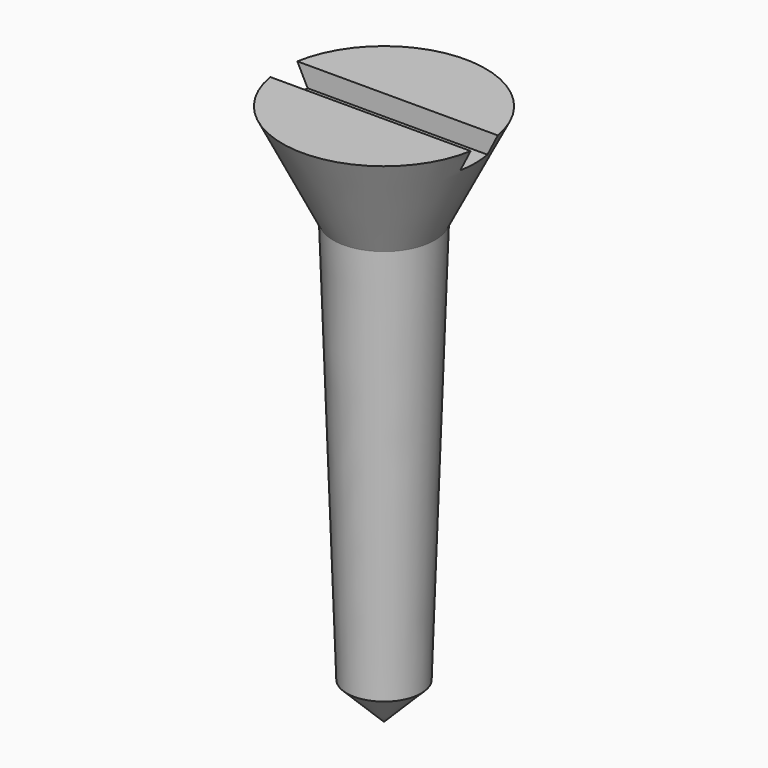
from build123d import *

# Parameters (mm, degrees)
F3_W     = 8
F3_H     = 1
F4_DEPTH = 0.6


with BuildPart() as f1:
    # F0 (on Front) → F1 (revolve)
    with BuildSketch(Plane.XZ):
        Polygon((0, 16), (0, 0), (1.1, 1.1), (1.5, 13), (3, 16), align=None)
    revolve(axis=Axis((0, 0, 8), (0, 0, 1)))

    # F3 (on offset) → F4 (cut)
    with BuildSketch(Plane.XY.offset(16)):
        Rectangle(F3_W, F3_H)
    extrude(amount=-F4_DEPTH, mode=Mode.SUBTRACT)


solid = f1.part
